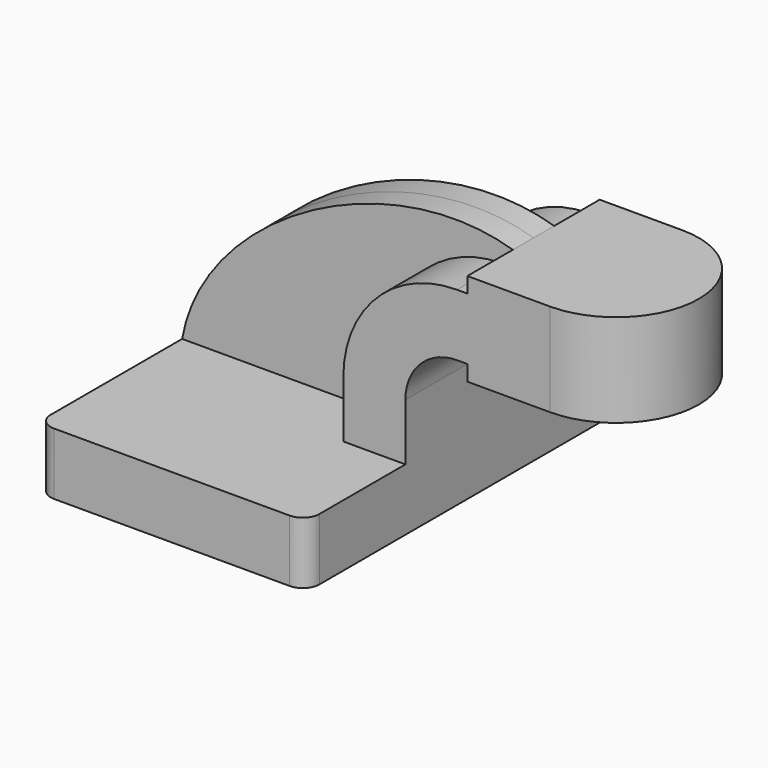
from build123d import *

# Parameters (mm, degrees)
F1_DEPTH = 63.5
F2_DEPTH = 25.4
F3_DEPTH = 7.9375
F0_W     = 25.4
F0_H     = 28.575
F5_R     = 5.08


with BuildPart() as f1:
    # F0 (on Front) → F1 (new body, symmetric)
    with BuildSketch(Plane.XZ):
        Polygon((-41.275, -9.525), (41.275, -9.525), (41.275, 9.525), (22.225, 9.525), (-41.275, 9.525), align=None)
    extrude(amount=F1_DEPTH, both=True)

    # F0 (on Front) → F2 (join, symmetric)
    with BuildSketch(Plane.XZ):
        with BuildLine():
            Line((22.225, 9.525), (41.275, 9.525))
            Line((41.275, 9.525), (41.275, 27.0002))
            ThreePointArc((41.275, 27.0002), (45.92468, 38.22552), (57.15, 42.8752))
            Line((57.15, 42.8752), (60.325, 42.8752))
            Line((60.325, 42.8752), (60.325, 61.9252))
            Line((60.325, 61.9252), (57.15, 61.9252))
            ThreePointArc((57.15, 61.9252), (32.454296, 51.695904), (22.225, 27.0002))
            Line((22.225, 27.0002), (22.225, 9.525))
        make_face()
        Polygon((85.725, 66.675), (60.325, 66.675), (60.325, 61.9252), (60.325, 42.8752), (60.325, 38.1), (85.725, 38.1), align=None)
    extrude(amount=F2_DEPTH, both=True)

    # F0 (on Front) → F3 (join, symmetric)
    with BuildSketch(Plane.XZ):
        with BuildLine():
            add(Edge.make_bspline(
                [(-41.275, 9.525), (-34.780891, 47.233644), (21.640048, 78.397568), (60.325, 66.675)],
                knots=[0, 0, 0, 0, 116.570504, 116.570504, 116.570504, 116.570504], degree=3))
            Line((-41.275, 9.525), (22.225, 9.525))
            Line((22.225, 9.525), (22.225, 27.0002))
            ThreePointArc((22.225, 27.0002), (32.454296, 51.695904), (57.15, 61.9252))
            Line((57.15, 61.9252), (60.325, 61.9252))
            Line((60.325, 61.9252), (60.325, 66.675))
        make_face()
    extrude(amount=F3_DEPTH, both=True)

    # F0 (on Front) → F4 (revolve)
    with BuildSketch(Plane.XZ):
        with Locations((98.425, 52.3875)):
            Rectangle(F0_W, F0_H)
    revolve(axis=Axis((85.725, 0, 52.3875), (0, 0, 1)))

    # F5
    f5_edges = [f1.edges().sort_by_distance(p)[0] for p in [
        (41.275, -63.5, 0),
        (-41.275, -63.5, 0),
        (-41.275, 63.5, 0),
        (41.275, 63.5, 0),
    ]]
    fillet(f5_edges, radius=F5_R)


solid = f1.part
